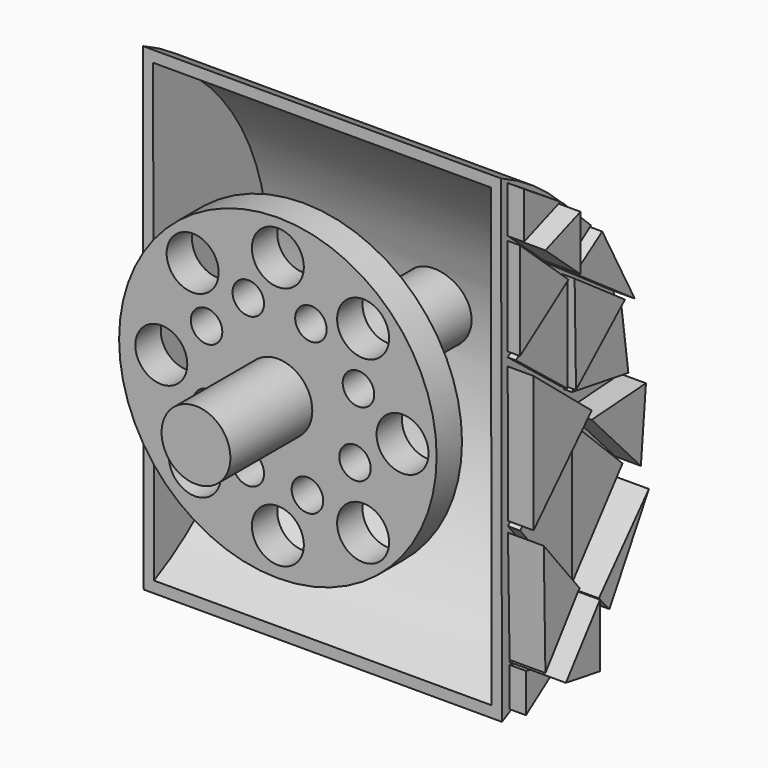
from build123d import *

# Parameters (mm, degrees)
F1_DEPTH       = 44.45
F2_T           = -2.54
F4_DEPTH       = 3.048
F5_DEPTH       = 2.032
F6_R           = 8.5884836505
F7_DEPTH       = 111.76
F8_R           = 39.4036450699
F8_R_2         = 6.4516
F8_R_3         = 3.9116
F8_R_4         = 6.449994717
F8_R_5         = 3.9145825761
F8_R_6         = 8.5446742393
F9_DEPTH       = 7.874
F10_DEPTH      = 4.064
F11_DEPTH      = 6.35
F12_DEPTH      = 8.89
F13_DEPTH      = 13.97
F14_R          = 8.5440093832
F15_DEPTH      = 63.5
F15_DEPTH_BACK = 25.4
F16_R          = 4.0797353241
F17_DEPTH      = 12.7
F18_R          = 1.0432951987
F19_DEPTH      = 7.62
F19_DEPTH_BACK = 7.62


with BuildPart() as f1:
    # F0 (on Right) → F1 (new body, symmetric)
    with BuildSketch(Plane.YZ):
        with BuildLine():
            Line((13.6707741767, 56.8416379392), (13.9585798606, -62.0221421123))
            ThreePointArc((13.9585798606, -62.0221421123), (51.9603082909, -2.4978898085), (13.6707741767, 56.8416379392))
        make_face()
    extrude(amount=F1_DEPTH, both=True)

    # F2
    f2_openings = [f1.faces().sort_by_distance(p)[0] for p in [
        (0, 13.814677, -2.590252),
    ]]
    offset(amount=F2_T, openings=f2_openings)

    # F3 (on face) → F4 (join)
    with BuildSketch(Plane.YZ.offset(44.45)):
        Polygon((48.3125038445, 17.274575308), (32.6931588352, 28.2123923316), (33.1204766431, 3.6951108838), align=None)
        Polygon((15.6799764807, 42.3979995422), (15.7386120409, 18.1815065444), (30.7983085513, 28.7639964372), align=None)
        Polygon((31.8036924781, -4.224287346), (15.8204166668, -20.0110599399), (31.8036924781, -39.7966504097), align=None)
        Polygon((50.6870336831, -0.891760923), (33.8509492576, -2.0413310267), (49.1139404476, -18.3168277144), align=None)
    extrude(amount=F4_DEPTH)

    # F3 (on face) → F5 (join)
    with BuildSketch(Plane.YZ.offset(44.45)):
        Polygon((31.8036924781, 28.2123923316), (15.7386120409, 16.9234164059), (31.8036924781, 4.1880118661), align=None)
        Polygon((48.3878925443, 16.1702837795), (33.1204766431, 2.9022698291), (50.6265312433, 0), align=None)
        Polygon((48.8340742216, -19.0356384646), (32.9068177391, -3.7031029351), (32.9068177391, -39.1270816326), align=None)
    extrude(amount=F5_DEPTH)

    # F6 (on Front) → F7 (cut)
    with BuildSketch(Plane.XZ):
        Circle(F6_R)
    extrude(amount=-F7_DEPTH, mode=Mode.SUBTRACT)

    # F3 (on face) → F10 (join)
    with BuildSketch(Plane.YZ.offset(44.45)):
        Polygon((36.4868305624, 38.6183857918), (27.8886333108, 46.9455313625), (27.8886333108, 32.538484782), align=None)
        Polygon((35.7949584723, -44.1676899791), (27.4485927075, -35.7853509486), (27.7363993227, -52.2982031107), align=None)
        Polygon((15.6799764807, 55.0350770354), (15.6799764807, 43.4508919716), (27.0005688071, 47.6240776479), align=None)
        Polygon((26.9071683567, -52.6972040534), (16.3211673498, -50.5190677941), (16.3211673498, -60.199663043), align=None)
    extrude(amount=F10_DEPTH)

    # F3 (on face) → F11 (join)
    with BuildSketch(Plane.YZ.offset(44.45)):
        Polygon((33.8509492576, 0), (15.7386120409, 14.9253578857), (15.8204166668, -18.8599619036), align=None)
        Polygon((37.1194891632, 37.778146565), (28.622969985, 32.0290066302), (47.2334629013, 18.9965672983), align=None)
        Polygon((50.6870336831, -0.891760923), (33.8509492576, -2.0413310267), (49.1139404476, -18.3168277144), align=None)
    extrude(amount=F11_DEPTH)

    # F3 (on face) → F12 (join)
    with BuildSketch(Plane.YZ.offset(44.45)):
        Polygon((27.2029257387, 46.9455313625), (16.3211673498, 42.9341159761), (27.2029257387, 33.3080366254), align=None)
        Polygon((26.9071683567, -35.1503925869), (15.8204166668, -21.4261766523), (16.3211673498, -49.4174696505), align=None)
        Polygon((48.4310686588, -22.2542937845), (32.9068177391, -39.8347303271), (36.1959449947, -43.523337692), align=None)
    extrude(amount=F12_DEPTH)

    # F3 (on face) → F13 (join)
    with BuildSketch(Plane.YZ.offset(44.45)):
        Polygon((26.9071683567, -36.0471867025), (16.3211673498, -49.9044060707), (26.9071683567, -51.6756214201), align=None)
    extrude(amount=F13_DEPTH)


with BuildPart() as f9:
    # F8 (on Front) → F9 (new body)
    with BuildSketch(Plane.XZ):
        Circle(F8_R)
        with Locations((-20.5781124532, -21.7293333262)):
            Circle(F8_R_2, mode=Mode.SUBTRACT)
        with Locations((-7.3390463367, -17.7000537515)):
            Circle(F8_R_3, mode=Mode.SUBTRACT)
        with Locations((-17.1244423836, -7.6268524863)):
            Circle(F8_R_3, mode=Mode.SUBTRACT)
        with Locations((0, -30.0757028162)):
            Circle(F8_R_4, mode=Mode.SUBTRACT)
        with Locations((21.1537219584, -22.5927531719)):
            Circle(F8_R_2, mode=Mode.SUBTRACT)
        with Locations((7.3390468024, -18.8512764871)):
            Circle(F8_R_3, mode=Mode.SUBTRACT)
        with Locations((19.1390831023, -7.9146586359)):
            Circle(F8_R_3, mode=Mode.SUBTRACT)
        with Locations((-28.924478218, 0)):
            Circle(F8_R_2, mode=Mode.SUBTRACT)
        with Locations((-17.7000537515, 9.9292993546)):
            Circle(F8_R_3, mode=Mode.SUBTRACT)
        with Locations((-7.3390463367, 19.4268878549)):
            Circle(F8_R_5, mode=Mode.SUBTRACT)
        with Locations((-21.153723821, 22.5927531719)):
            Circle(F8_R_2, mode=Mode.SUBTRACT)
        Circle(F8_R_6, mode=Mode.SUBTRACT)
        with Locations((8.2024643198, 18.8512764871)):
            Circle(F8_R_3, mode=Mode.SUBTRACT)
        with Locations((20.0024992228, 8.4902700037)):
            Circle(F8_R_3, mode=Mode.SUBTRACT)
        with Locations((30.939117074, 0)):
            Circle(F8_R_2, mode=Mode.SUBTRACT)
        with Locations((0, 30.6513141841)):
            Circle(F8_R_2, mode=Mode.SUBTRACT)
        with Locations((21.1537219584, 22.0171418041)):
            Circle(F8_R_2, mode=Mode.SUBTRACT)
    extrude(amount=-F9_DEPTH)


with BuildPart() as f15:
    # F14 (on Front) → F15 (new body, two sides)
    with BuildSketch(Plane.XZ) as f15_sk:
        Circle(F14_R)
    extrude(amount=-F15_DEPTH)
    extrude(f15_sk.sketch, amount=F15_DEPTH_BACK)


with BuildPart() as f17:
    # F16 (on Right) → F17 (new body, symmetric)
    with BuildSketch(Plane.YZ):
        with Locations((57.8288249671, 0)):
            Circle(F16_R)
    extrude(amount=F17_DEPTH, both=True)


with BuildPart() as f19:
    # F18 (on Top) → F19 (new body, two sides)
    with BuildSketch(Plane.XY) as f19_sk:
        with Locations((11.5515151992, 58.21332708)):
            Circle(F18_R)
    extrude(amount=F19_DEPTH)
    extrude(f19_sk.sketch, amount=-F19_DEPTH_BACK)


solid = Compound([f1.part, f9.part, f15.part, f17.part, f19.part])
